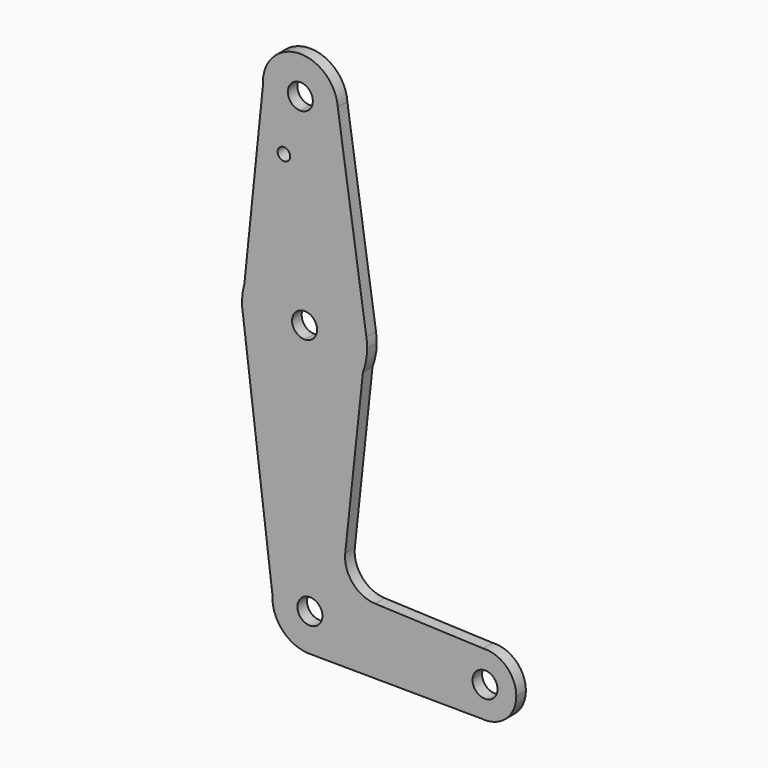
from build123d import *

# Parameters (mm, degrees)
F0_R     = 1.5875
F1_DEPTH = 3.048


with BuildPart() as f1:
    # F0 (on Front) → F1 (new body)
    with BuildSketch(Plane.XZ):
        with BuildLine():
            ThreePointArc((-24.7289290825, 60.9510715235), (-25.0412637842, 59.3221191219), (-25.0662844065, 57.663682249))
            Line((-25.0662844065, 57.663682249), (-24.7289290825, 60.9510715235))
        make_face()
        with BuildLine():
            ThreePointArc((1.3887012683, 7.5755954007), (1.3404638224, 8.8122085397), (1.1960446314, 10.0413065846))
            Line((1.1960446314, 10.0413065846), (0.317389474, 1.8426694019))
            ThreePointArc((0.317389474, 1.8426694019), (1.1185751105, 4.659512863), (1.3887012683, 7.5755954007))
        make_face()
        with BuildLine():
            ThreePointArc((-25.0662844065, 57.663682249), (-21.9796183432, 51.3076405378), (-15.3635193877, 48.8269131784))
            ThreePointArc((-15.3635193877, 48.8269131784), (-8.7596131476, 51.6865494754), (-6.0410253586, 58.349760249))
            ThreePointArc((-6.0410253586, 58.349760249), (-6.0472238808, 58.6933347346), (-6.06581138, 59.0364620488))
            ThreePointArc((-6.06581138, 59.0364620488), (-14.5939775654, 67.8250305928), (-24.7289290825, 60.9510715235))
            Line((-24.7289290825, 60.9510715235), (-25.0662844065, 57.663682249))
        make_face()
        with BuildLine():
            ThreePointArc((-12.3910253586, 58.349760249), (-13.2972212882, 56.1286899912), (-15.4985233683, 55.1754778921))
            ThreePointArc((-15.4985233683, 55.1754778921), (-17.8348294289, 60.5708305069), (-12.3910253586, 58.349760249))
        make_face(mode=Mode.SUBTRACT)
        with BuildLine():
            Line((31.9058879602, -65.7481320617), (30.6132565332, -65.73923113))
            ThreePointArc((30.6132565332, -65.73923113), (31.2593907501, -65.7700393061), (31.9058879602, -65.7481320617))
        make_face()
        with BuildLine():
            Line((-14.553800722, 10.7498777576), (-14.8238086831, 23.4470071852))
            ThreePointArc((-14.8238086831, 23.4470071852), (-24.1992384268, 20.1324432329), (-29.7635385726, 11.8908668691))
            Line((-29.7635385726, 11.8908668691), (-30.3215656459, 6.4531219012))
            Line((-30.3215656459, 6.4531219012), (-30.114978318, 4.789917855))
            ThreePointArc((-30.114978318, 4.789917855), (-24.5493041149, -4.7024967824), (-14.1487887803, -8.2958163837))
            Line((-14.1487887803, -8.2958163837), (-14.4187967415, 4.4013130438))
            ThreePointArc((-14.4187967415, 4.4013130438), (-17.6605810886, 7.5080934105), (-14.553800722, 10.7498777576))
        make_face()
        with BuildLine():
            ThreePointArc((39.2515462914, -57.8327274802), (36.7485188317, -52.0473653948), (30.8180560342, -49.9107390988))
            ThreePointArc((30.8180560342, -49.9107390988), (25.6465910059, -52.2754028687), (23.3838511881, -57.4922691502))
            ThreePointArc((23.3838511881, -57.4922691502), (25.3452465466, -63.0650630826), (30.6132565332, -65.73923113))
            Line((30.6132565332, -65.73923113), (31.9058879602, -65.7481320617))
            ThreePointArc((31.9058879602, -65.7481320617), (37.1321924521, -63.2320868405), (39.2515462914, -57.8327274802))
        make_face()
        with BuildLine():
            ThreePointArc((34.4890462914, -57.8327274802), (31.2459389538, -61.0069969064), (28.1419682501, -57.6965441482))
            ThreePointArc((28.1419682501, -57.6965441482), (31.382153629, -54.6584580539), (34.4890462914, -57.8327274802))
        make_face(mode=Mode.SUBTRACT)
        with BuildLine():
            ThreePointArc((-3.6197195847, -56.3329545952), (-6.4018515288, -62.6606864247), (-12.7304833817, -65.44077044))
            Line((-12.7304833817, -65.44077044), (30.6132565332, -65.73923113))
            ThreePointArc((30.6132565332, -65.73923113), (25.3452465466, -63.0650630826), (23.3838511881, -57.4922691502))
            Line((23.3838511881, -57.4922691502), (-3.6197195847, -56.3329545952))
        make_face()
        with BuildLine():
            Line((-13.2034556989, -52.7501222424), (-13.3384596795, -46.4015575286))
            ThreePointArc((-13.3384596795, -46.4015575286), (-19.7409167754, -49.0614542216), (-22.6440592582, -55.3573474074))
            ThreePointArc((-22.6440592582, -55.3573474074), (-19.92810705, -62.602149577), (-12.7304833817, -65.44077044))
            ThreePointArc((-12.7304833817, -65.44077044), (-6.4018515288, -62.6606864247), (-3.6197195847, -56.3329545952))
            Line((-3.6197195847, -56.3329545952), (-9.9638756673, -56.0605879312))
            ThreePointArc((-9.9638756673, -56.0605879312), (-15.4051813049, -58.1450421466), (-13.2034556989, -52.7501222424))
        make_face()
        with BuildLine():
            Line((-30.114978318, 4.789917855), (-30.3215656459, 6.4531219012))
            ThreePointArc((-30.3215656459, 6.4531219012), (-30.2402361529, 5.6187916985), (-30.114978318, 4.789917855))
        make_face()
        with BuildLine():
            ThreePointArc((1.1960446314, 10.0413065846), (-4.2983558453, 19.7502183823), (-14.8238086831, 23.4470071852))
            Line((-14.8238086831, 23.4470071852), (-14.553800722, 10.7498777576))
            ThreePointArc((-14.553800722, 10.7498777576), (-12.2652284738, 9.8443994711), (-11.3112987317, 7.5755954007))
            ThreePointArc((-11.3112987317, 7.5755954007), (-12.2174946614, 5.3545251429), (-14.4187967415, 4.4013130438))
            Line((-14.4187967415, 4.4013130438), (-14.1487887803, -8.2958163837))
            ThreePointArc((-14.1487887803, -8.2958163837), (-5.3752508274, -5.4245750245), (0.317389474, 1.8426694019))
            Line((0.317389474, 1.8426694019), (1.1960446314, 10.0413065846))
        make_face()
        with BuildLine():
            Line((-14.8238086831, 23.4470071852), (-15.3635193877, 48.8269131784))
            ThreePointArc((-15.3635193877, 48.8269131784), (-21.9796183432, 51.3076405378), (-25.0662844065, 57.663682249))
            Line((-25.0662844065, 57.663682249), (-29.7635385726, 11.8908668691))
            ThreePointArc((-29.7635385726, 11.8908668691), (-24.1992384268, 20.1324432329), (-14.8238086831, 23.4470071852))
        make_face()
        with Locations((-19.7369977832, 44.1007954007)):
            Circle(F0_R, mode=Mode.SUBTRACT)
        with BuildLine():
            ThreePointArc((-6.0410253586, 58.349760249), (-8.7596131476, 51.6865494754), (-15.3635193877, 48.8269131784))
            Line((-15.3635193877, 48.8269131784), (-14.8238086831, 23.4470071852))
            ThreePointArc((-14.8238086831, 23.4470071852), (-4.2983558453, 19.7502183823), (1.1960446314, 10.0413065846))
            Line((1.1960446314, 10.0413065846), (-6.06581138, 59.0364620488))
            ThreePointArc((-6.06581138, 59.0364620488), (-6.0472238808, 58.6933347346), (-6.0410253586, 58.349760249))
        make_face()
        with BuildLine():
            Line((-30.3215656459, 6.4531219012), (-29.7635385726, 11.8908668691))
            ThreePointArc((-29.7635385726, 11.8908668691), (-30.2783627744, 9.1961935221), (-30.3215656459, 6.4531219012))
        make_face()
        with BuildLine():
            Line((-13.3384596795, -46.4015575286), (-14.1487887803, -8.2958163837))
            ThreePointArc((-14.1487887803, -8.2958163837), (-24.5493041149, -4.7024967824), (-30.114978318, 4.789917855))
            Line((-30.114978318, 4.789917855), (-22.6440592582, -55.3573474074))
            ThreePointArc((-22.6440592582, -55.3573474074), (-19.7409167754, -49.0614542216), (-13.3384596795, -46.4015575286))
        make_face()
        with BuildLine():
            ThreePointArc((-3.6109537086, -55.9244045993), (-6.472742935, -49.1179923883), (-13.3384596795, -46.4015575286))
            Line((-13.3384596795, -46.4015575286), (-13.2034556989, -52.7501222424))
            ThreePointArc((-13.2034556989, -52.7501222424), (-10.9148834508, -53.6556005289), (-9.9609537086, -55.9244045993))
            ThreePointArc((-9.9609537086, -55.9244045993), (-9.9616842824, -55.9925119369), (-9.9638756673, -56.0605879312))
            Line((-9.9638756673, -56.0605879312), (-3.6197195847, -56.3329545952))
            ThreePointArc((-3.6197195847, -56.3329545952), (-3.6131454298, -56.1287266121), (-3.6109537086, -55.9244045993))
        make_face()
        with BuildLine():
            Line((-4.1701045459, -40.0296567547), (0.317389474, 1.8426694019))
            ThreePointArc((0.317389474, 1.8426694019), (-5.3752508274, -5.4245750245), (-14.1487887803, -8.2958163837))
            Line((-14.1487887803, -8.2958163837), (-13.3384596795, -46.4015575286))
            ThreePointArc((-13.3384596795, -46.4015575286), (-6.472742935, -49.1179923883), (-3.6109537086, -55.9244045993))
            ThreePointArc((-3.6109537086, -55.9244045993), (-3.6131454298, -56.1287266121), (-3.6197195847, -56.3329545952))
            Line((-3.6197195847, -56.3329545952), (23.3838511881, -57.4922691502))
            ThreePointArc((23.3838511881, -57.4922691502), (25.6465910059, -52.2754028687), (30.8180560342, -49.9107390988))
            Line((30.8180560342, -49.9107390988), (3.4188065711, -48.8207519414))
            ThreePointArc((3.4188065711, -48.8207519414), (-2.2832163115, -46.0719114493), (-4.1701045459, -40.0296567547))
        make_face()
    extrude(amount=F1_DEPTH)


solid = f1.part
